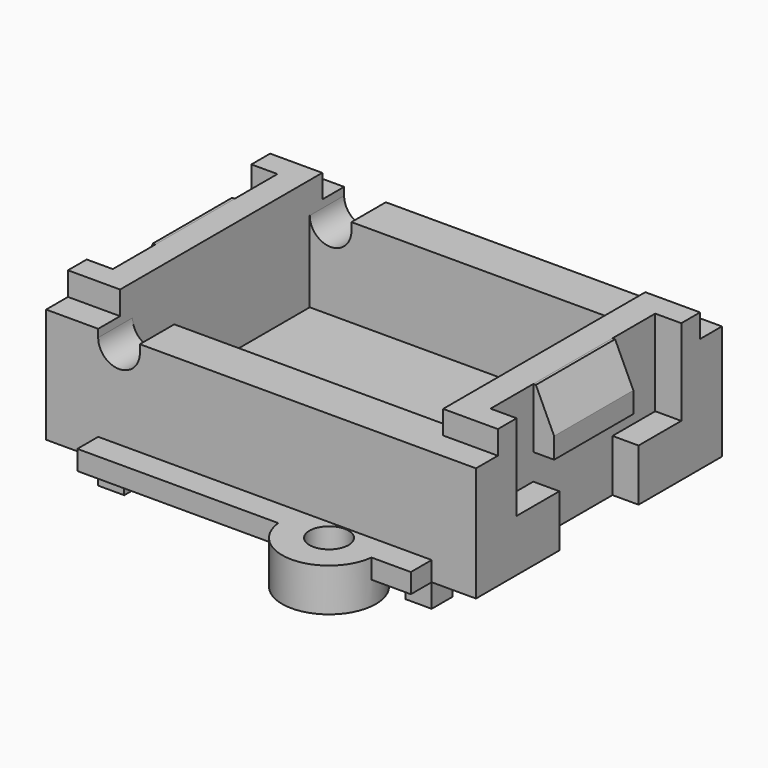
from build123d import *

# Parameters (mm, degrees)
CYLINDER003_R     = 0.75
CYLINDER003_DEPTH = 10
CYLINDER_R        = 1.8
CYLINDER_DEPTH    = 1.65
BOX006_W          = 12.8
BOX006_H          = 1
BOX006_DEPTH      = 0.75
CYLINDER002_R     = 0.75
CYLINDER002_DEPTH = 10
BOX005_W          = 12.8
BOX005_H          = 1
BOX005_DEPTH      = 0.75
CYLINDER001_R     = 1.8
CYLINDER001_DEPTH = 1.65
BOX002_W          = 1
BOX002_H          = 1
BOX002_DEPTH      = 0.9
BOX003_W          = 1
BOX003_H          = 1
BOX003_DEPTH      = 0.9
BOX001_W          = 1
BOX001_H          = 1
BOX001_DEPTH      = 0.9
BOX004_W          = 1
BOX004_H          = 1
BOX004_DEPTH      = 0.9
BOX015_W          = 0.8
BOX015_H          = 3.8
BOX015_DEPTH      = 2.3
CHAMFER_SIZE2     = 0.7
CHAMFER_SIZE      = 1.5
BOX016_W          = 0.8
BOX016_H          = 3.8
BOX016_DEPTH      = 2.3
CHAMFER001_SIZE2  = 0.7
CHAMFER001_SIZE   = 1.5
BOX019_W          = 12.3
BOX019_H          = 9.7
BOX019_DEPTH      = 1
CYLINDER004_R     = 0.8
CYLINDER004_DEPTH = 20
BOX018_W          = 1.6
BOX018_H          = 20
BOX018_DEPTH      = 3
BOX017_W          = 12.4
BOX017_H          = 8.5
BOX017_DEPTH      = 4.3
BOX013_W          = 1
BOX013_H          = 2.05
BOX013_DEPTH      = 3.3
BOX014_W          = 1
BOX014_H          = 2.05
BOX014_DEPTH      = 3.3
BOX011_W          = 1
BOX011_H          = 2.05
BOX011_DEPTH      = 3.3
BOX012_W          = 1
BOX012_H          = 2.05
BOX012_DEPTH      = 3.3
BOX010_W          = 1
BOX010_H          = 3.8
BOX010_DEPTH      = 5.3
BOX009_W          = 1
BOX009_H          = 3.8
BOX009_DEPTH      = 5.3
BOX007_W          = 16.5
BOX007_H          = 1.05
BOX007_DEPTH      = 1
BOX008_W          = 16.5
BOX008_H          = 1.05
BOX008_DEPTH      = 1
BOX_W             = 16.5
BOX_H             = 11.8
BOX_DEPTH         = 5.3


with BuildPart() as cylinder003:
    # Cylinder003 → Cylinder003 (new body)
    with BuildSketch(Plane(origin=(11.5, -6.7, 0), x_dir=(1, 0, 0), z_dir=(0, 0, 1))):
        Circle(CYLINDER003_R)
    extrude(amount=CYLINDER003_DEPTH)


with BuildPart() as cylinder:
    # Cylinder → Cylinder (new body)
    with BuildSketch(Plane(origin=(11.5, -6.7, 0), x_dir=(1, 0, 0), z_dir=(0, 0, 1))):
        Circle(CYLINDER_R)
    extrude(amount=CYLINDER_DEPTH)


with BuildPart() as cut:
    # Box006 → Box006 (new body)
    with BuildSketch(Plane(origin=(2, -6.9, 0.9), x_dir=(1, 0, 0), z_dir=(0, 0, 1))):
        with Locations((6.4, 0.5)):
            Rectangle(BOX006_W, BOX006_H)
    extrude(amount=BOX006_DEPTH)

    # Fusion: union Cylinder
    add(cylinder.part)

    # Cut: cut Cylinder003
    add(cylinder003.part, mode=Mode.SUBTRACT)


with BuildPart() as cylinder002:
    # Cylinder002 → Cylinder002 (new body)
    with BuildSketch(Plane(origin=(11.5, 6.7, 0), x_dir=(1, 0, 0), z_dir=(0, 0, 1))):
        Circle(CYLINDER002_R)
    extrude(amount=CYLINDER002_DEPTH)


with BuildPart() as sk1:
    # Box005 → Box005 (new body)
    with BuildSketch(Plane(origin=(2, 5.9, 0.9), x_dir=(1, 0, 0), z_dir=(0, 0, 1))):
        with Locations((6.4, 0.5)):
            Rectangle(BOX005_W, BOX005_H)
    extrude(amount=BOX005_DEPTH)


with BuildPart() as cut001:
    # Cylinder001 → Cylinder001 (new body)
    with BuildSketch(Plane(origin=(11.5, 6.7, 0), x_dir=(1, 0, 0), z_dir=(0, 0, 1))):
        Circle(CYLINDER001_R)
    extrude(amount=CYLINDER001_DEPTH)

    # Fusion001: union sk1
    add(sk1.part)

    # Cut001: cut Cylinder002
    add(cylinder002.part, mode=Mode.SUBTRACT)


with BuildPart() as cube002:
    # Box002 → Box002 (new body)
    with BuildSketch(Plane(origin=(13.8, 4.9, 0), x_dir=(1, 0, 0), z_dir=(0, 0, 1))):
        with Locations((0.5, 0.5)):
            Rectangle(BOX002_W, BOX002_H)
    extrude(amount=BOX002_DEPTH)


with BuildPart() as cube003:
    # Box003 → Box003 (new body)
    with BuildSketch(Plane(origin=(2, -5.9, 0), x_dir=(1, 0, 0), z_dir=(0, 0, 1))):
        with Locations((0.5, 0.5)):
            Rectangle(BOX003_W, BOX003_H)
    extrude(amount=BOX003_DEPTH)


with BuildPart() as cube001:
    # Box001 → Box001 (new body)
    with BuildSketch(Plane(origin=(2, 4.9, 0), x_dir=(1, 0, 0), z_dir=(0, 0, 1))):
        with Locations((0.5, 0.5)):
            Rectangle(BOX001_W, BOX001_H)
    extrude(amount=BOX001_DEPTH)


with BuildPart() as pods:
    # Box004 → Box004 (new body)
    with BuildSketch(Plane(origin=(13.8, -5.9, 0), x_dir=(1, 0, 0), z_dir=(0, 0, 1))):
        with Locations((0.5, 0.5)):
            Rectangle(BOX004_W, BOX004_H)
    extrude(amount=BOX004_DEPTH)

    # Fusion004: union Cube002, Cube003, Cube001
    add(cube002.part)
    add(cube003.part)
    add(cube001.part)


with BuildPart() as chamfer_body:
    # Box015 → Box015 (new body)
    with BuildSketch(Plane(origin=(0.2, -1.9, 3.9), x_dir=(1, 0, 0), z_dir=(0, 0, 1))):
        with Locations((0.4, 1.9)):
            Rectangle(BOX015_W, BOX015_H)
    extrude(amount=BOX015_DEPTH)

    # Chamfer
    chamfer_edges = [chamfer_body.edges().sort_by_distance(p)[0] for p in [
        (0.2, 0, 6.2),
    ]]
    chamfer_side = chamfer_body.faces().sort_by_distance((0.2, 0, 5.05))[0]
    chamfer(chamfer_edges, length=CHAMFER_SIZE, length2=CHAMFER_SIZE2, reference=chamfer_side)


with BuildPart() as chamfer001:
    # Box016 → Box016 (new body)
    with BuildSketch(Plane(origin=(15.5, -1.9, 3.9), x_dir=(1, 0, 0), z_dir=(0, 0, 1))):
        with Locations((0.4, 1.9)):
            Rectangle(BOX016_W, BOX016_H)
    extrude(amount=BOX016_DEPTH)

    # Chamfer001
    chamfer001_edges = [chamfer001.edges().sort_by_distance(p)[0] for p in [
        (16.3, 0, 6.2),
    ]]
    chamfer001_side = chamfer001.faces().sort_by_distance((16.3, 0, 5.05))[0]
    chamfer(chamfer001_edges, length=CHAMFER001_SIZE, length2=CHAMFER001_SIZE2, reference=chamfer001_side)


with BuildPart() as cube016:
    # Box019 → Box019 (new body)
    with BuildSketch(Plane(origin=(2.1, -4.85, 5.3), x_dir=(1, 0, 0), z_dir=(0, 0, 1))):
        with Locations((6.15, 4.85)):
            Rectangle(BOX019_W, BOX019_H)
    extrude(amount=BOX019_DEPTH)


with BuildPart() as cylinder004:
    # Cylinder004 → Cylinder004 (new body)
    with BuildSketch(Plane(origin=(2.8, 10, 5), x_dir=(1, 0, 0), z_dir=(0, -1, 0))):
        Circle(CYLINDER004_R)
    extrude(amount=CYLINDER004_DEPTH)


with BuildPart() as fusion005:
    # Box018 → Box018 (new body)
    with BuildSketch(Plane(origin=(2, -10, 5), x_dir=(1, 0, 0), z_dir=(0, 0, 1))):
        with Locations((0.8, 10)):
            Rectangle(BOX018_W, BOX018_H)
    extrude(amount=BOX018_DEPTH)

    # Fusion005: union Cylinder004
    add(cylinder004.part)


with BuildPart() as cube:
    # Box017 → Box017 (new body)
    with BuildSketch(Plane(origin=(2, -4.25, 1.9), x_dir=(1, 0, 0), z_dir=(0, 0, 1))):
        with Locations((6.2, 4.25)):
            Rectangle(BOX017_W, BOX017_H)
    extrude(amount=BOX017_DEPTH)


with BuildPart() as cube011:
    # Box013 → Box013 (new body)
    with BuildSketch(Plane(origin=(0, 1.9, 2.9), x_dir=(1, 0, 0), z_dir=(0, 0, 1))):
        with Locations((0.5, 1.025)):
            Rectangle(BOX013_W, BOX013_H)
    extrude(amount=BOX013_DEPTH)


with BuildPart() as cube012:
    # Box014 → Box014 (new body)
    with BuildSketch(Plane(origin=(0, -3.95, 2.9), x_dir=(1, 0, 0), z_dir=(0, 0, 1))):
        with Locations((0.5, 1.025)):
            Rectangle(BOX014_W, BOX014_H)
    extrude(amount=BOX014_DEPTH)


with BuildPart() as cube009:
    # Box011 → Box011 (new body)
    with BuildSketch(Plane(origin=(15.5, -3.95, 2.9), x_dir=(1, 0, 0), z_dir=(0, 0, 1))):
        with Locations((0.5, 1.025)):
            Rectangle(BOX011_W, BOX011_H)
    extrude(amount=BOX011_DEPTH)


with BuildPart() as cube010:
    # Box012 → Box012 (new body)
    with BuildSketch(Plane(origin=(15.5, 1.9, 2.9), x_dir=(1, 0, 0), z_dir=(0, 0, 1))):
        with Locations((0.5, 1.025)):
            Rectangle(BOX012_W, BOX012_H)
    extrude(amount=BOX012_DEPTH)


with BuildPart() as cube008:
    # Box010 → Box010 (new body)
    with BuildSketch(Plane(origin=(15.5, -1.9, 0.9), x_dir=(1, 0, 0), z_dir=(0, 0, 1))):
        with Locations((0.5, 1.9)):
            Rectangle(BOX010_W, BOX010_H)
    extrude(amount=BOX010_DEPTH)


with BuildPart() as fusion003:
    # Box009 → Box009 (new body)
    with BuildSketch(Plane(origin=(0, -1.9, 0.9), x_dir=(1, 0, 0), z_dir=(0, 0, 1))):
        with Locations((0.5, 1.9)):
            Rectangle(BOX009_W, BOX009_H)
    extrude(amount=BOX009_DEPTH)

    # Fusion003: union Cube011, Cube012, Cube009, Cube010, Cube008
    add(cube011.part)
    add(cube012.part)
    add(cube009.part)
    add(cube010.part)
    add(cube008.part)


with BuildPart() as cube005:
    # Box007 → Box007 (new body)
    with BuildSketch(Plane(origin=(0, 4.85, 5.3), x_dir=(1, 0, 0), z_dir=(0, 0, 1))):
        with Locations((8.25, 0.525)):
            Rectangle(BOX007_W, BOX007_H)
    extrude(amount=BOX007_DEPTH)


with BuildPart() as fusion002:
    # Box008 → Box008 (new body)
    with BuildSketch(Plane(origin=(0, -5.9, 5.3), x_dir=(1, 0, 0), z_dir=(0, 0, 1))):
        with Locations((8.25, 0.525)):
            Rectangle(BOX008_W, BOX008_H)
    extrude(amount=BOX008_DEPTH)

    # Fusion002: union Cube005
    add(cube005.part)


with BuildPart() as cut006:
    # Box → Box (new body)
    with BuildSketch(Plane(origin=(0, -5.9, 0.9), x_dir=(1, 0, 0), z_dir=(0, 0, 1))):
        with Locations((8.25, 5.9)):
            Rectangle(BOX_W, BOX_H)
    extrude(amount=BOX_DEPTH)

    # Cut002: cut Fusion002
    add(fusion002.part, mode=Mode.SUBTRACT)

    # Cut003: cut Fusion003
    add(fusion003.part, mode=Mode.SUBTRACT)

    # Cut004: cut Cube
    add(cube.part, mode=Mode.SUBTRACT)

    # Cut005: cut Fusion005
    add(fusion005.part, mode=Mode.SUBTRACT)

    # Cut006: cut Cube016
    add(cube016.part, mode=Mode.SUBTRACT)


solid = Compound([cut.part, cut001.part, pods.part, chamfer_body.part, chamfer001.part, cut006.part])
